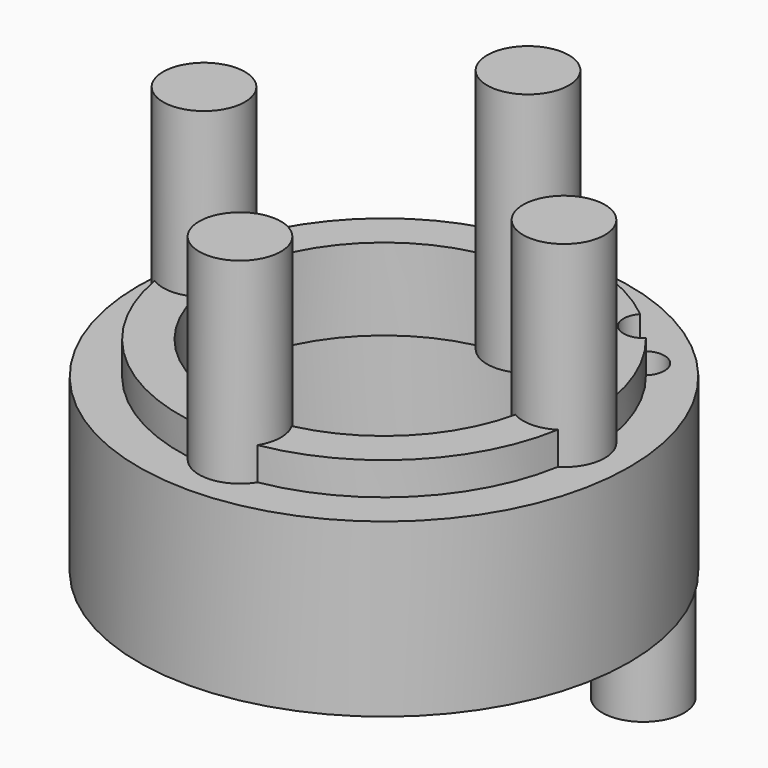
from build123d import *

# Parameters (mm, degrees)
SKETCH_R           = 30
SKETCH_R_2         = 25
PAD003_DEPTH       = 6
PAD003_DEPTH_BACK  = 15
SKETCH001_R        = 5
PAD004_DEPTH       = 30
POLARPATTERN_COUNT = 4
SKETCH003_R        = 25
SKETCH003_R_2      = 20
PAD_DEPTH          = 10
SKETCH004_R        = 5
SKETCH004_R_2      = 2.5
PAD006_DEPTH       = 4
PAD006_DEPTH_BACK  = 30
SKETCH005_R        = 2.5
POCKET_DEPTH       = 30.001
POCKET_DEPTH_BACK  = 30.001


with BuildPart() as part:
    # Sketch → Pad003 (new body, two sides)
    with BuildSketch(Plane.XY) as pad003_sk:
        Circle(SKETCH_R)
        Circle(SKETCH_R_2, mode=Mode.SUBTRACT)
    extrude(amount=PAD003_DEPTH)
    extrude(pad003_sk.sketch, amount=-PAD003_DEPTH_BACK)

    # Sketch001 → Pad004 (join)
    with BuildSketch(Plane.XY):
        with Locations((0, 22)):
            Circle(SKETCH001_R)
    pad004 = extrude(amount=PAD004_DEPTH)

    # PolarPattern: Pad004 ×4 about axis
    polarpattern_axis = Axis((0, 0, 0), (0, 0, 1))
    for i in range(1, POLARPATTERN_COUNT):
        add(pad004.rotate(polarpattern_axis, i * 360 / POLARPATTERN_COUNT))

    # Sketch003 → Pad (join)
    with BuildSketch(Plane.XY):
        Circle(SKETCH003_R)
        Circle(SKETCH003_R_2, mode=Mode.SUBTRACT)
    extrude(amount=PAD_DEPTH)

    # Sketch004 → Pad006 (join, two sides)
    with BuildSketch(Plane.XY) as pad006_sk:
        with Locations((17.614592, 17.594242)):
            Circle(SKETCH004_R)
        with Locations((17.66179, 17.660632)):
            Circle(SKETCH004_R_2, mode=Mode.SUBTRACT)
    extrude(amount=PAD006_DEPTH)
    extrude(pad006_sk.sketch, amount=-PAD006_DEPTH_BACK)

    # Sketch005 → Pocket (cut, two sides)
    with BuildSketch(Plane.XY) as pocket_sk:
        with Locations((17.681431, 17.632393)):
            Circle(SKETCH005_R)
    extrude(amount=-POCKET_DEPTH, mode=Mode.SUBTRACT)
    extrude(pocket_sk.sketch, amount=POCKET_DEPTH_BACK, mode=Mode.SUBTRACT)


solid = part.part
